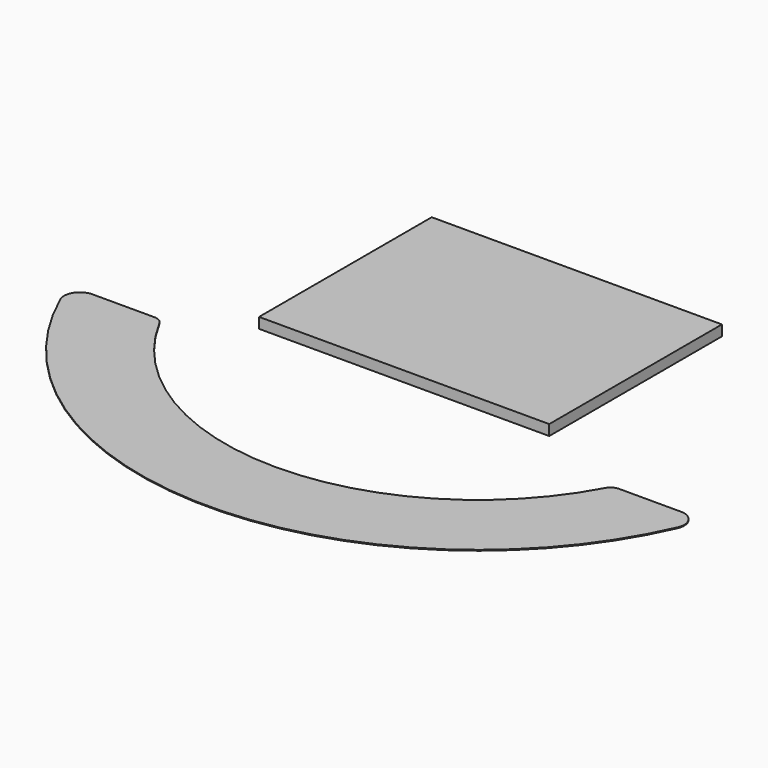
from build123d import *

# Parameters (mm, degrees)
F1_DEPTH = 0.254
F2_W     = 87.368347
F2_H     = 64.988286
F3_DEPTH = 3.175


with BuildPart() as f1:
    # F0 (on Top) → F1 (new body)
    with BuildSketch(Plane.XY):
        with BuildLine():
            ThreePointArc((-88.588861, -34.390652), (-92.568691, -36.547857), (-92.933502, -41.060008))
            ThreePointArc((-92.933502, -41.060008), (0, -101.6), (92.933502, -41.060008))
            ThreePointArc((92.933502, -41.060008), (92.568691, -36.547857), (88.588861, -34.390652))
            Line((88.588861, -34.390652), (69.922903, -34.390652))
            ThreePointArc((69.922903, -34.390652), (68.293519, -34.840633), (67.125987, -36.063026))
            ThreePointArc((67.125987, -36.063026), (0, -76.2), (-67.125987, -36.063026))
            ThreePointArc((-67.125987, -36.063026), (-68.293519, -34.840633), (-69.922903, -34.390652))
            Line((-69.922903, -34.390652), (-88.588861, -34.390652))
        make_face()
    extrude(amount=F1_DEPTH)


with BuildPart() as f3:
    # F2 (on Top) → F3 (new body)
    with BuildSketch(Plane.XY):
        with Locations((-3.658268, 9.207964)):
            Rectangle(F2_W, F2_H)
    extrude(amount=F3_DEPTH)


solid = Compound([f1.part, f3.part])
